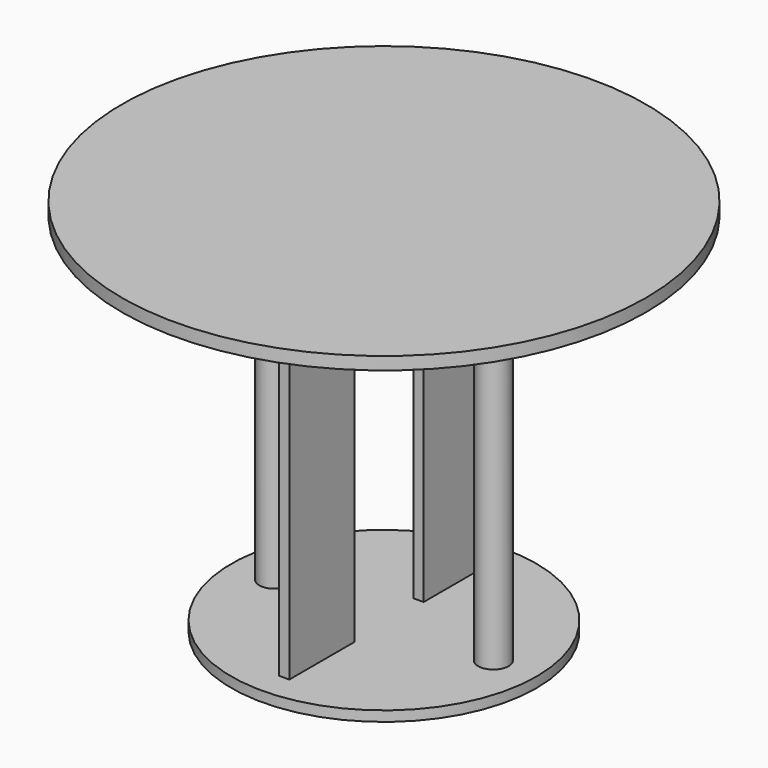
from build123d import *

# Parameters (mm, degrees)
F0_R     = 300
F0_W     = 20
F0_H     = 160
F0_R_2   = 30
F1_DEPTH = 20
F2_DEPTH = 700
F3_R     = 515
F4_DEPTH = 25


with BuildPart() as f1:
    # F0 (on Top) → F1 (new body)
    with BuildSketch(Plane.XY):
        Circle(F0_R)
        with Locations((0, -165)):
            Rectangle(F0_W, F0_H, mode=Mode.SUBTRACT)
        with Locations((-215, 0)):
            Circle(F0_R_2, mode=Mode.SUBTRACT)
        with Locations((215, 0)):
            Circle(F0_R_2, mode=Mode.SUBTRACT)
        with Locations((0, 165)):
            Rectangle(F0_W, F0_H, mode=Mode.SUBTRACT)
        with Locations((0, -165)):
            Rectangle(F0_W, F0_H)
        with Locations((0, 165)):
            Rectangle(F0_W, F0_H)
        with Locations((215, 0)):
            Circle(F0_R_2)
        with Locations((-215, 0)):
            Circle(F0_R_2)
    extrude(amount=-F1_DEPTH)

    # F0 (on Top) → F2 (join)
    with BuildSketch(Plane.XY):
        with Locations((215, 0)):
            Circle(F0_R_2)
        with Locations((-215, 0)):
            Circle(F0_R_2)
        with Locations((0, -165)):
            Rectangle(F0_W, F0_H)
        with Locations((0, 165)):
            Rectangle(F0_W, F0_H)
    extrude(amount=F2_DEPTH)

    # F3 (on face) → F4 (join)
    with BuildSketch(Plane.XY.offset(700)):
        Circle(F3_R)
    extrude(amount=F4_DEPTH)


solid = f1.part
